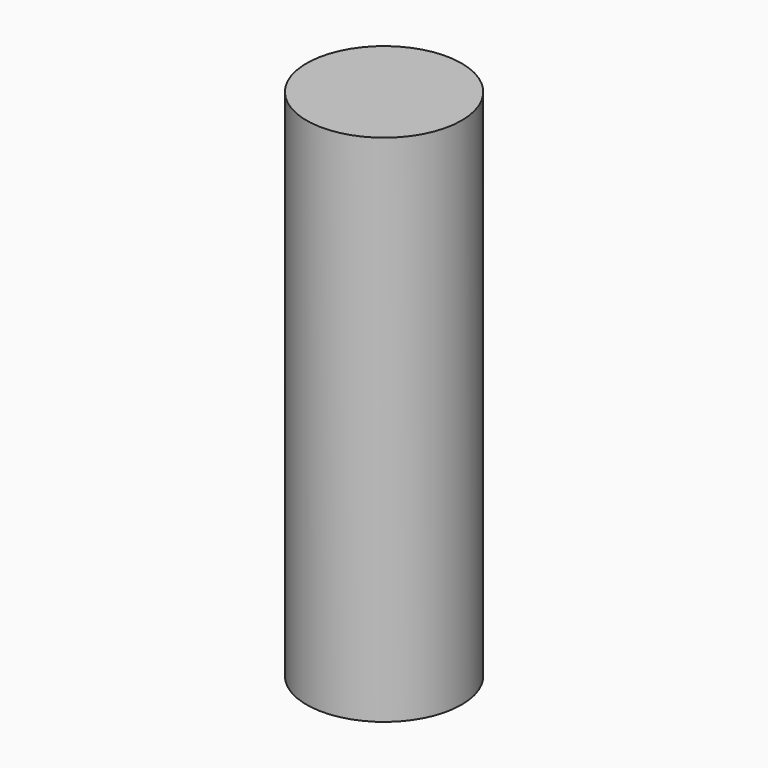
from build123d import *

# Parameters (mm, degrees)
CYLINDER_R     = 2.2606
CYLINDER_DEPTH = 15


with BuildPart() as part:
    # Cylinder → Cylinder (new body)
    with BuildSketch(Plane.XY.offset(-2.5)):
        Circle(CYLINDER_R)
    extrude(amount=CYLINDER_DEPTH)


solid = part.part
